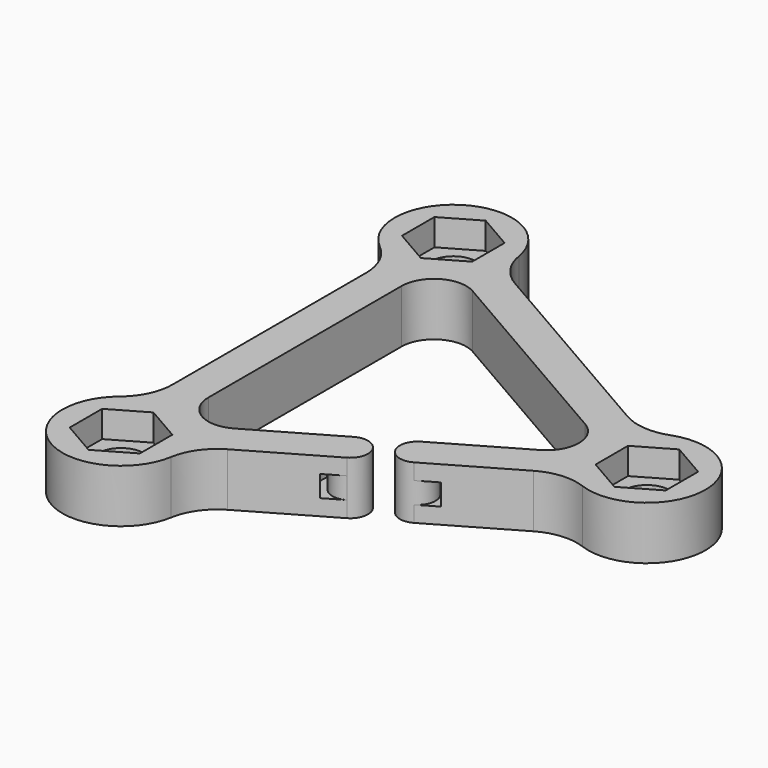
from build123d import *

# Parameters (mm, degrees)
F0_R     = 2.55
F1_DEPTH = 6
F3_DEPTH = 3
F6_DEPTH = 1.2


with BuildPart() as f1:
    # F0 (on Top) → F1 (new body)
    with BuildSketch(Plane.XY):
        with BuildLine():
            ThreePointArc((-31.0288725662, 20.2239290055), (-32.9870436526, 22.0241242247), (-33.9929573966, 24.4864959209))
            ThreePointArc((-33.9929573966, 24.4864959209), (-43.8, 29.0984535672), (-44.7094488189, 18.2993267135))
            ThreePointArc((-44.7094488189, 18.2993267135), (-43.0799292484, 16.196994009), (-42.5, 13.6010704937))
            Line((-42.5, 13.6010704937), (-42.5, -13.6010704937))
            ThreePointArc((-42.5, -13.6010704937), (-43.0799292484, -16.196994009), (-44.7094488189, -18.2993267135))
            ThreePointArc((-44.7094488189, -18.2993267135), (-43.8, -29.0984535672), (-33.9929573966, -24.4864959209))
            ThreePointArc((-33.9929573966, -24.4864959209), (-32.9870429643, -22.0241232349), (-31.0288704781, -20.2239277999))
            Line((-31.0288704781, -20.2239277999), (-21.8480739571, -14.9233924572))
            ThreePointArc((-21.8480739571, -14.9233924572), (-21.1160231495, -12.1913416496), (-23.8480739571, -11.459290842))
            Line((-23.8480739571, -11.459290842), (-33.0288704781, -16.7598261848))
            ThreePointArc((-33.0288704781, -16.7598261848), (-36.6762898114, -16.7598279931), (-38.5, -13.6010704937))
            Line((-38.5, -13.6010704937), (-38.5, 13.6010704937))
            ThreePointArc((-38.5, 13.6010704937), (-36.6762908554, 16.7598273904), (-33.0288725662, 16.7598273904))
            Line((-33.0288725662, 16.7598273904), (-9.4711274338, 3.1587568967))
            ThreePointArc((-9.4711274338, 3.1587568967), (-7.6474182892, 6.361e-07), (-9.471126332, -3.1587562606))
            Line((-9.471126332, -3.1587562606), (-18.6519224918, -8.4592913948))
            ThreePointArc((-18.6519224918, -8.4592913948), (-19.383972999, -11.1913405115), (-16.6519239586, -11.9233913037))
            Line((-16.6519239586, -11.9233913037), (-7.471126332, -6.6228578757))
            ThreePointArc((-7.471126332, -6.6228578757), (-4.9330264651, -5.8271301623), (-2.2975937845, -6.1871692074))
            ThreePointArc((-2.2975937845, -6.1871692074), (6.6, 0), (-2.2975937845, 6.1871692074))
            ThreePointArc((-2.2975937845, 6.1871692074), (-4.933027099, 5.8271302157), (-7.4711274338, 6.6228585118))
            Line((-7.4711274338, 6.6228585118), (-31.0288725662, 20.2239290055))
        make_face()
        with Locations((-40.5, -23.3826859022)):
            Circle(F0_R, mode=Mode.SUBTRACT)
        Circle(F0_R, mode=Mode.SUBTRACT)
        with Locations((-40.5, 23.3826859022)):
            Circle(F0_R, mode=Mode.SUBTRACT)
    extrude(amount=F1_DEPTH)

    # F2 (on face) → F3 (cut)
    with BuildSketch(Plane.XY.offset(6)):
        Polygon((-36.55, 21.1021523389), (-36.55, 25.6632194655), (-40.5, 27.9437530288), (-44.45, 25.6632194655), (-44.45, 21.1021523389), (-40.5, 18.8216187756), align=None)
        Polygon((-36.55, -25.6632194655), (-36.55, -21.1021523389), (-40.5, -18.8216187756), (-44.45, -21.1021523389), (-44.45, -25.6632194655), (-40.5, -27.9437530288), align=None)
        Polygon((-3.95, 2.2805335633), (-3.95, -2.2805335633), (0, -4.5610671266), (3.95, -2.2805335633), (3.95, 2.2805335633), (0, 4.5610671266), align=None)
    extrude(amount=-F3_DEPTH, mode=Mode.SUBTRACT)

    # F5 (on mid) → F6 (cut, symmetric)
    with BuildSketch(Plane.XY.offset(3)):
        with BuildLine():
            Line((-23.8480739571, -11.459290842), (-25.8992931068, -12.6435627702))
            ThreePointArc((-25.8992931068, -12.6435627702), (-25.5327527088, -14.7413416496), (-23.8992931068, -16.1076643854))
            Line((-23.8992931068, -16.1076643854), (-21.8480739571, -14.9233924572))
            ThreePointArc((-21.8480739571, -14.9233924572), (-24.5801247646, -14.1913416496), (-23.8480739571, -11.459290842))
        make_face()
        with BuildLine():
            ThreePointArc((-18.6519224918, -8.4592913948), (-15.9198730901, -9.1913419783), (-16.6519239586, -11.9233913037))
            Line((-16.6519239586, -11.9233913037), (-14.6007037534, -10.7391193365))
            ThreePointArc((-14.6007037534, -10.7391193365), (-14.9672441312, -8.6413415249), (-16.6007025337, -7.2750189998))
            Line((-16.6007025337, -7.2750189998), (-18.6519224918, -8.4592913948))
        make_face()
    extrude(amount=F6_DEPTH, both=True, mode=Mode.SUBTRACT)


solid = f1.part
